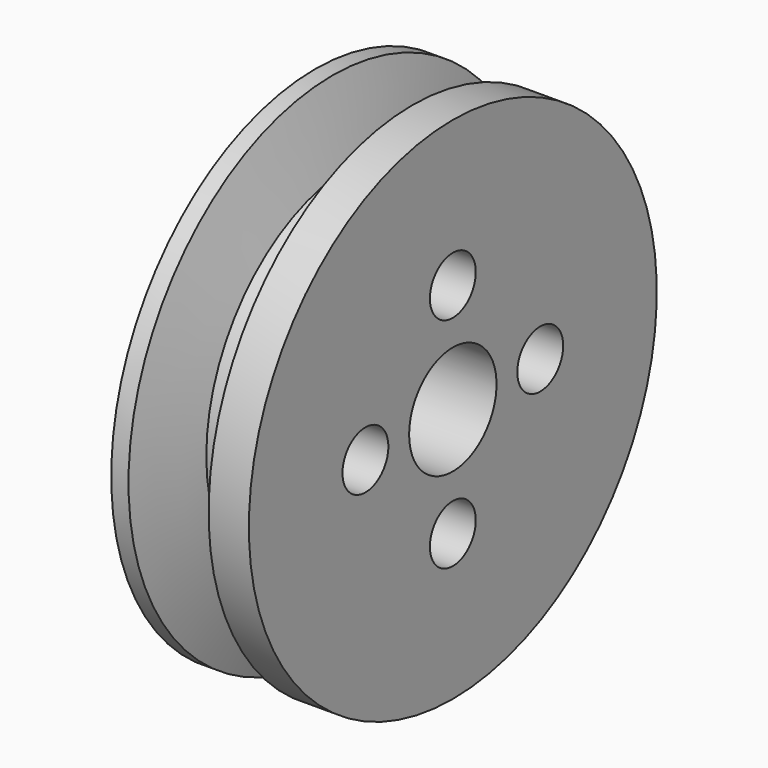
from build123d import *

# Parameters (mm, degrees)
F2_R           = 2.5
F2_R_2         = 4.7625
F3_DEPTH       = 10.001
F5_D           = 5
F5_CBORE_D     = 9
F5_CBORE_DEPTH = 7
F6_R           = 14.025
F6_R_2         = 7
F7_DEPTH       = 7
F8_DEPTH       = 2


with BuildPart() as f1:
    # F0 (on Front) → F1 (revolve)
    with BuildSketch(Plane.XZ):
        Polygon((0, 22.225), (0, 0), (10, 0), (10, 22.225), (8.4925, 22.225), (6.7910226281, 15.875), (3.2089773719, 15.875), (1.5075, 22.225), align=None)
    revolve(axis=Axis((5, 0, 0), (-1, 0, 0)))

    # F2 (on face) → F3 (cut, through all)
    with BuildSketch(Plane(origin=(0, 0, 0), x_dir=(0, -1, 0), z_dir=(-1, 0, 0))):
        with Locations((0, 9.525)):
            Circle(F2_R)
        with Locations((9.525, 0)):
            Circle(F2_R)
        with Locations((0, -9.525)):
            Circle(F2_R)
        with Locations((-9.525, 0)):
            Circle(F2_R)
        Circle(F2_R_2)
    extrude(amount=-F3_DEPTH, mode=Mode.SUBTRACT)

    # F5 (through all)
    with Locations(Plane(origin=(0, 0, 0), x_dir=(0, -1, 0), z_dir=(-1, 0, 0))):
        with Locations((0, 9.525), (-9.525, 0), (0, -9.525), (9.525, 0)):
            CounterBoreHole(F5_D / 2, F5_CBORE_D / 2, F5_CBORE_DEPTH)

    # F6 (on face) → F7 (cut)
    with BuildSketch(Plane(origin=(0, 0, 0), x_dir=(0, -1, 0), z_dir=(-1, 0, 0))):
        Circle(F6_R)
        Circle(F6_R_2, mode=Mode.SUBTRACT)
    extrude(amount=-F7_DEPTH, mode=Mode.SUBTRACT)

    # F8 (add): a face of the model
    f8_faces = [f1.faces().sort_by_distance(p)[0] for p in [
        (10, 0, -21.5963820715),
    ]]
    extrude(f8_faces, amount=F8_DEPTH)


solid = f1.part
